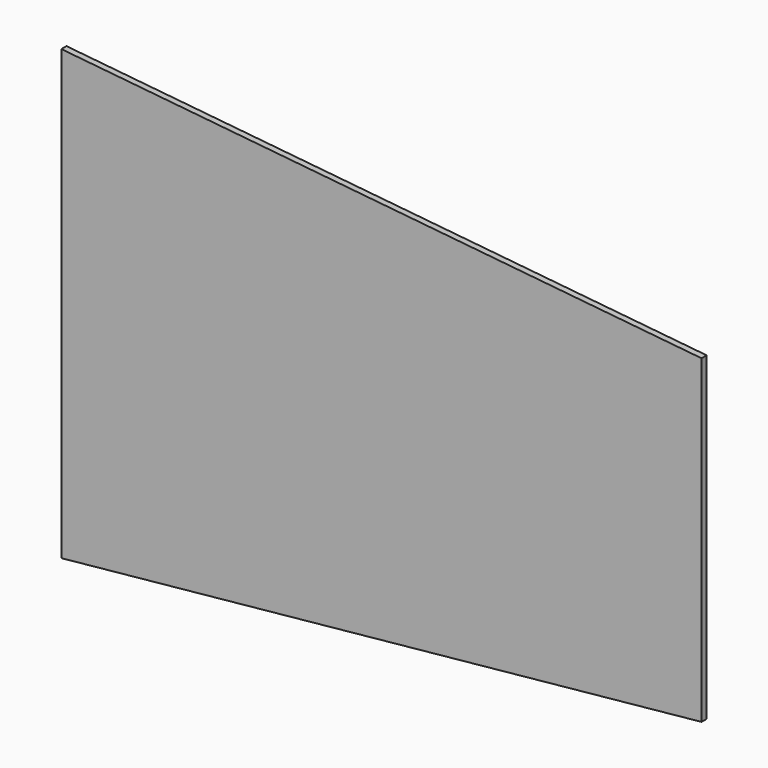
from build123d import *

# Parameters (mm, degrees)
PAD_DEPTH    = 5
CHAMFER_SIZE = 4


with BuildPart() as part:
    # Sketch → Pad (new body)
    with BuildSketch(Plane.XZ):
        Polygon((-50, -35), (50, -25), (50, 25), (-50, 35), align=None)
    extrude(amount=PAD_DEPTH)

    # Chamfer
    chamfer_edges = [part.edges().sort_by_distance(p)[0] for p in [
        (0, 0, 30),
        (50, 0, 0),
        (0, 0, -30),
        (-50, 0, 0),
    ]]
    chamfer(chamfer_edges, length=CHAMFER_SIZE)


solid = part.part
